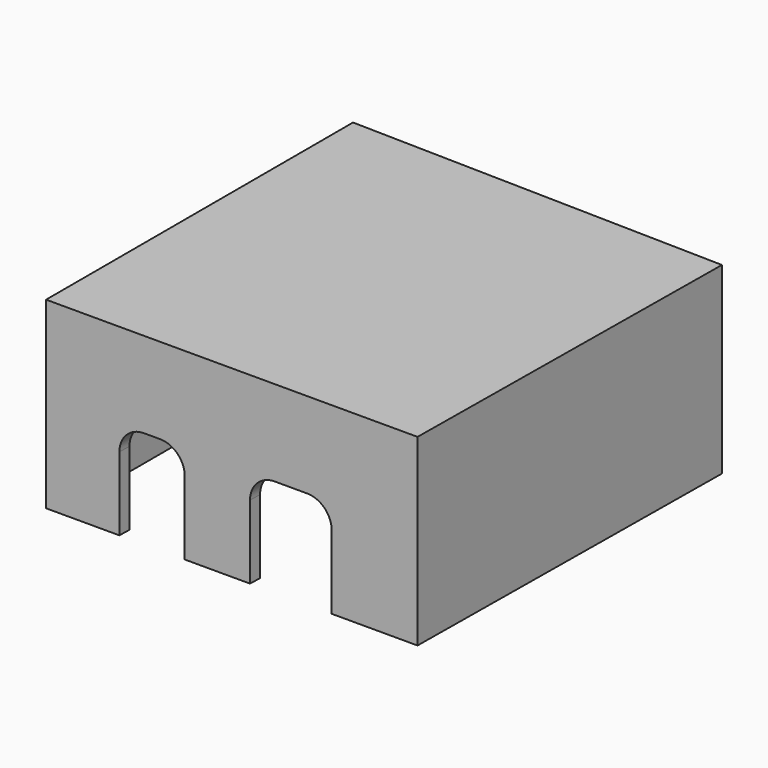
from build123d import *

# Parameters (mm, degrees)
F1_DEPTH = 22.5
F3_DEPTH = 15
F4_W     = 25.6565664813
F4_H     = 15.121226953
F5_DEPTH = 5
F6_R     = 5
F8_DEPTH = 46.9898349885
F9_R     = 1


with BuildPart() as f1:
    # F0 (on Top) → F1 (new body)
    with BuildSketch(Plane.XY):
        Polygon((0, 47), (0, 0), (45.5, 0), (45.9890725419, 45.997400014), align=None)
    extrude(amount=F1_DEPTH)

    # F2 (on Top) → F3 (cut)
    with BuildSketch(Plane.XY):
        Polygon((1.5, 33.5), (1.5, 1.5), (44.0079360013, 1.5), (44.4654638771, 44.5306159486), (0, 45.5), (0, 33.5), align=None)
    extrude(amount=F3_DEPTH, mode=Mode.SUBTRACT)

    # F4 (on face) → F5 (cut)
    with BuildSketch(Plane(origin=(0, 0, 15), x_dir=(1, 0, 0), z_dir=(0, 0, -1))):
        with Locations((27.3282832406, -23.0606134765)):
            Rectangle(F4_W, F4_H)
    extrude(amount=-F5_DEPTH, mode=Mode.SUBTRACT)

    # F6
    f6_edges = [f1.edges().sort_by_distance(p)[0] for p in [
        (14.5, 30.621227, 17.5),
        (40.156566, 30.621227, 17.5),
        (14.5, 15.5, 17.5),
        (40.156566, 15.5, 17.5),
    ]]
    fillet(f6_edges, radius=F6_R)

    # F7 (on face) → F8 (cut, through all)
    with BuildSketch(Plane(origin=(1.0241522892, 46.9776726293, 0), x_dir=(-0.9997624466, 0.0217956519, 0), z_dir=(0.0217956519, 0.9997624466, 0))):
        with BuildLine():
            Line((-16.9756043621, 0), (-8.9756043621, 0))
            Line((-8.9756043621, 0), (-8.9756043621, 9))
            ThreePointArc((-8.9756043621, 9), (-9.8542840186, 11.1213203436), (-11.9756043621, 12))
            Line((-11.9756043621, 12), (-13.9756043621, 12))
            ThreePointArc((-13.9756043621, 12), (-16.0969247057, 11.1213203436), (-16.9756043621, 9))
            Line((-16.9756043621, 9), (-16.9756043621, 0))
        make_face()
        with BuildLine():
            Line((-34.9756043621, 0), (-24.9756043621, 0))
            Line((-24.9756043621, 0), (-24.9756043621, 9))
            ThreePointArc((-24.9756043621, 9), (-25.8542840186, 11.1213203436), (-27.9756043621, 12))
            Line((-27.9756043621, 12), (-31.9756043621, 12))
            ThreePointArc((-31.9756043621, 12), (-34.0969247057, 11.1213203436), (-34.9756043621, 9))
            Line((-34.9756043621, 9), (-34.9756043621, 0))
        make_face()
    extrude(amount=-F8_DEPTH, mode=Mode.SUBTRACT)

    # F9
    f9_edges = [f1.edges().sort_by_distance(p)[0] for p in [
        (1.5, 1.5, 7.5),
        (44.007936, 1.5, 7.5),
        (44.465464, 44.530616, 7.5),
    ]]
    fillet(f9_edges, radius=F9_R)


solid = f1.part
